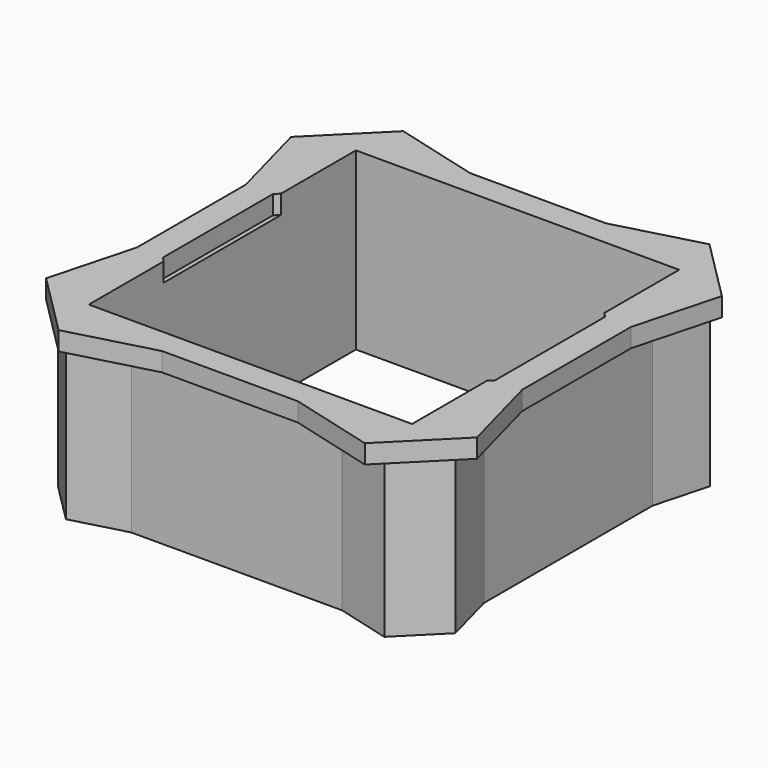
from build123d import *

# Parameters (mm, degrees)
F5_DEPTH = 25.4
F6_DEPTH = 3.048
F7_W     = 52.44865641
F7_H     = 54.1748739779
F8_DEPTH = 88.646


with BuildPart() as f5:
    # F2 (on offset) → F5 (new body)
    with BuildSketch(Plane.XY.offset(50.292)):
        Polygon((-32.2327940663, -25.8321565638), (-25.8321565638, -32.2327940663), (-17.0887231349, -29.88999814), (-14.7459272086, -21.1465647111), (-21.1465647111, -14.7459272086), (-29.88999814, -17.0887231349), align=None)
        Polygon((-14.7459272086, -21.1465647111), (-17.0887231349, -29.88999814), (17.0887231349, -29.88999814), (14.7459272086, -21.1465647111), align=None)
        Polygon((-29.88999814, 17.0887231349), (-29.88999814, -17.0887231349), (-21.1465647111, -14.7459272086), (-21.1465647111, 14.7459272086), align=None)
        Polygon((14.7459272086, -21.1465647111), (17.0887231349, -29.88999814), (25.8321565638, -32.2327940663), (32.2327940663, -25.8321565638), (29.88999814, -17.0887231349), (21.1465647111, -14.7459272086), align=None)
        Polygon((-32.2327940663, 25.8321565638), (-29.88999814, 17.0887231349), (-21.1465647111, 14.7459272086), (-14.7459272086, 21.1465647111), (-17.0887231349, 29.88999814), (-25.8321565638, 32.2327940663), align=None)
        Polygon((21.1465647111, 14.7459272086), (21.1465647111, -14.7459272086), (29.88999814, -17.0887231349), (29.88999814, 17.0887231349), align=None)
        Polygon((-17.0887231349, 29.88999814), (-14.7459272086, 21.1465647111), (14.7459272086, 21.1465647111), (17.0887231349, 29.88999814), align=None)
        Polygon((14.7459272086, 21.1465647111), (21.1465647111, 14.7459272086), (29.88999814, 17.0887231349), (32.2327940663, 25.8321565638), (25.8321565638, 32.2327940663), (17.0887231349, 29.88999814), align=None)
    extrude(amount=F5_DEPTH)

    # F4 (on offset) → F6 (join)
    with BuildSketch(Plane.XY.offset(75.692)):
        Polygon((-24.8438008947, 34.9560788946), (-34.9560788946, 24.8438008947), (-31.2547282565, 11.0301722567), (-31.2547282565, -11.0301722567), (-34.9560788946, -24.8438008947), (-24.8438008947, -34.9560788946), (-11.0301722567, -31.2547282565), (11.0301722567, -31.2547282565), (24.8438008947, -34.9560788946), (34.9560788946, -24.8438008947), (31.2547282565, -11.0301722567), (31.2547282565, 11.0301722567), (34.9560788946, 24.8438008947), (24.8438008947, 34.9560788946), (11.0301722567, 31.2547282565), (-11.0301722567, 31.2547282565), align=None)
        Polygon((-26.953196153, 11.1643793959), (-11.1643793959, 26.953196153), (11.1643793959, 26.953196153), (26.953196153, 11.1643793959), (26.953196153, -11.1643793959), (11.1643793959, -26.953196153), (-11.1643793959, -26.953196153), (-26.953196153, -11.1643793959), align=None, mode=Mode.SUBTRACT)
    extrude(amount=F6_DEPTH)

    # F7 (on offset) → F8 (cut)
    with BuildSketch(Plane.XY.offset(50.292)):
        Rectangle(F7_W, F7_H)
    extrude(amount=F8_DEPTH, mode=Mode.SUBTRACT)


solid = f5.part
